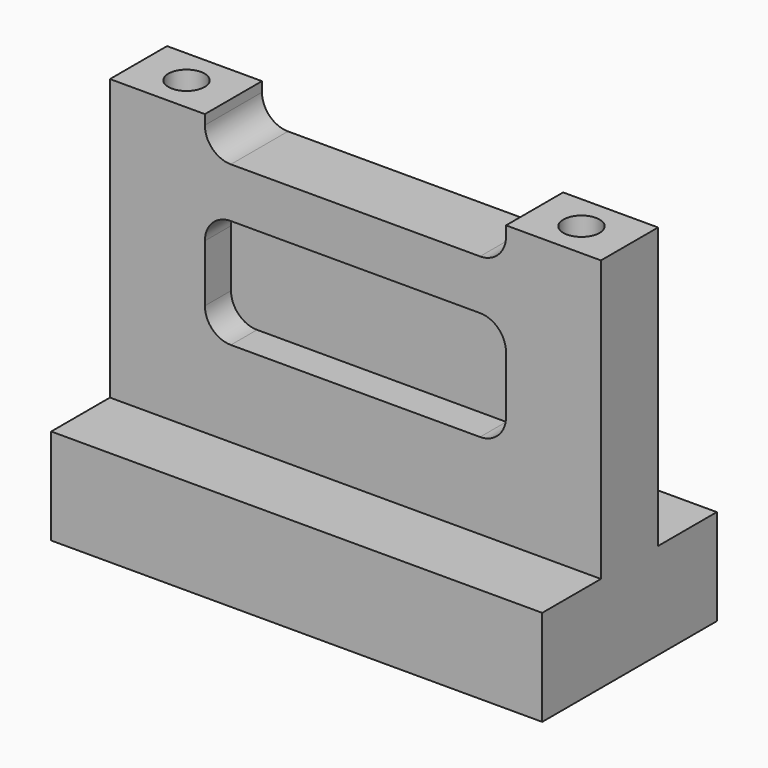
from build123d import *

# Parameters (mm, degrees)
F0_W            = 57.15
F0_H            = 25.4
F1_DEPTH        = 11.176
F2_W            = 57.15
F2_H            = 8.3099603653
F3_DEPTH        = 32.639
F5_DEPTH        = 3.81
F6_DEPTH        = 16.8559801826
F8_DEPTH        = 3.81
F10_D           = 4.2164
F10_CBORE_D     = 7.112
F10_CBORE_DEPTH = 9.652
F11_D           = 3.4544
F11_DEPTH       = 12.03325
F11_TIP         = 1.0378064612


with BuildPart() as f1:
    # F0 (on Top) → F1 (new body)
    with BuildSketch(Plane.XY):
        Rectangle(F0_W, F0_H)
    extrude(amount=F1_DEPTH)

    # F2 (on face) → F3 (join)
    with BuildSketch(Plane.XY.offset(11.176)):
        Rectangle(F2_W, F2_H)
    extrude(amount=F3_DEPTH)

    # F4 (on face) → F5 (cut)
    with BuildSketch(Plane.XZ.offset(4.1549801826)):
        with BuildLine():
            ThreePointArc((17.526, 30.8229), (16.6407009568, 32.9602009568), (14.5034, 33.8455))
            Line((14.5034, 33.8455), (-14.5034, 33.8455))
            ThreePointArc((-14.5034, 33.8455), (-16.6407009568, 32.9602009568), (-17.526, 30.8229))
            Line((-17.526, 30.8229), (-17.526, 24.1681))
            ThreePointArc((-17.526, 24.1681), (-16.6407009568, 22.0307990432), (-14.5034, 21.1455))
            Line((-14.5034, 21.1455), (14.5034, 21.1455))
            ThreePointArc((14.5034, 21.1455), (16.6407009568, 22.0307990432), (17.526, 24.1681))
            Line((17.526, 24.1681), (17.526, 30.8229))
        make_face()
    extrude(amount=-F5_DEPTH, mode=Mode.SUBTRACT)

    # F4 (on face) → F6 (cut, through all)
    with BuildSketch(Plane.XZ.offset(4.1549801826)):
        with BuildLine():
            ThreePointArc((-17.526, 42.6742546607), (-16.6407009568, 40.5369537039), (-14.5034, 39.6516546607))
            Line((-14.5034, 39.6516546607), (14.5034, 39.6516546607))
            ThreePointArc((14.5034, 39.6516546607), (16.6407009568, 40.5369537039), (17.526, 42.6742546607))
            Line((17.526, 42.6742546607), (17.526, 43.815))
            Line((17.526, 43.815), (-17.526, 43.815))
            Line((-17.526, 43.815), (-17.526, 42.6742546607))
        make_face()
    extrude(amount=-F6_DEPTH, mode=Mode.SUBTRACT)

    # F7 (on face) → F8 (cut)
    with BuildSketch(Plane(origin=(0, 4.1549801826, 0), x_dir=(-1, 0, 0), z_dir=(0, 1, 0))):
        with BuildLine():
            ThreePointArc((-14.5034, 33.8455), (-16.6407009568, 32.9602009568), (-17.526, 30.8229))
            Line((-17.526, 30.8229), (-17.526, 24.1681))
            ThreePointArc((-17.526, 24.1681), (-16.6407009568, 22.0307990432), (-14.5034, 21.1455))
            Line((-14.5034, 21.1455), (14.5034, 21.1455))
            ThreePointArc((14.5034, 21.1455), (16.6407009568, 22.0307990432), (17.526, 24.1681))
            Line((17.526, 24.1681), (17.526, 30.8229))
            ThreePointArc((17.526, 30.8229), (16.6407009568, 32.9602009568), (14.5034, 33.8455))
            Line((14.5034, 33.8455), (-14.5034, 33.8455))
        make_face()
    extrude(amount=-F8_DEPTH, mode=Mode.SUBTRACT)

    # F10 (through all)
    with Locations(Plane(origin=(0, 0, 0), x_dir=(1, 0, 0), z_dir=(0, 0, -1))):
        with Locations((-22.987, 0), (22.987, 0)):
            CounterBoreHole(F10_D / 2, F10_CBORE_D / 2, F10_CBORE_DEPTH)

    # F11
    with Locations(Plane(origin=(0, 0, 0), x_dir=(1, 0, 0), z_dir=(0, 0, -1))):
        with Locations((-15.875, 0), (15.875, 0)):
            Hole(F11_D / 2, depth=F11_DEPTH)
            with Locations((0, 0, -(F11_DEPTH + F11_TIP / 2))):  # 118° drill point
                Cone(0, F11_D / 2, F11_TIP, mode=Mode.SUBTRACT)


solid = f1.part
